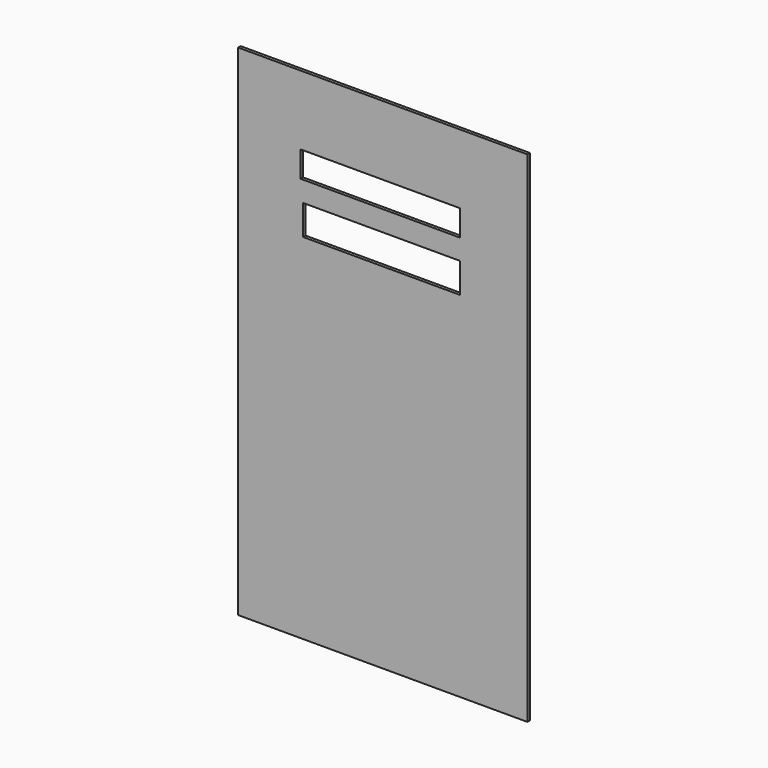
from build123d import *

# Parameters (mm, degrees)
F0_W     = 279.4
F0_H     = 482.6
F0_W_2   = 151.416814
F0_H_2   = 28.966704
F0_W_3   = 154.050152
F0_H_3   = 25.01668
F1_DEPTH = 3


with BuildPart() as f1:
    # F0 (on Front) → F1 (new body)
    with BuildSketch(Plane.XZ):
        Rectangle(F0_W, F0_H)
        with Locations((-1.187159, 115.077083)):
            Rectangle(F0_W_2, F0_H_2, mode=Mode.SUBTRACT)
        with Locations((-2.503828, 161.818793)):
            Rectangle(F0_W_3, F0_H_3, mode=Mode.SUBTRACT)
    extrude(amount=F1_DEPTH)


solid = f1.part
